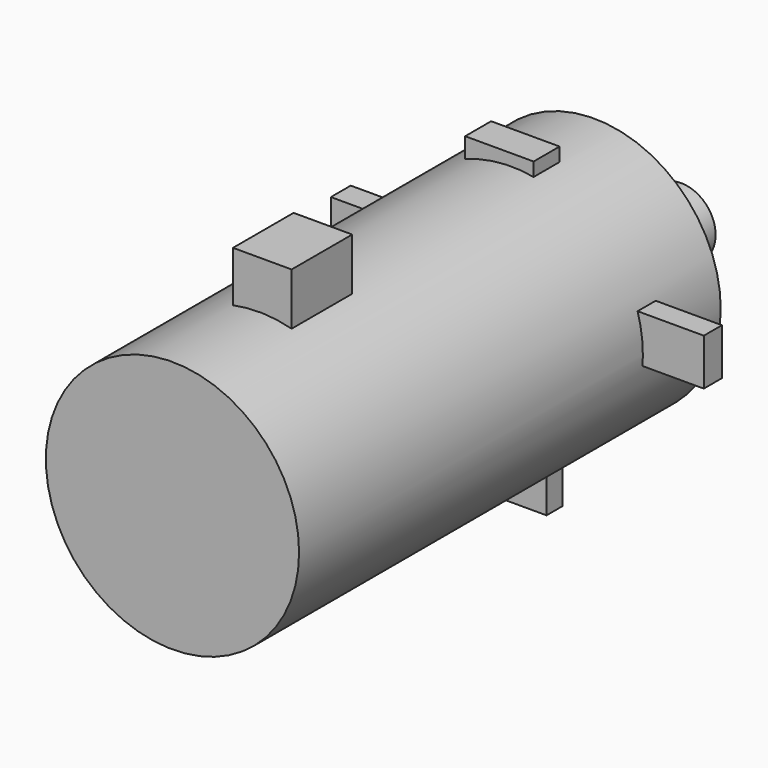
from build123d import *

# Parameters (mm, degrees)
F0_W      = 56.0778109357
F0_H      = 53.2455928624
F1_DEPTH  = 44.704
F2_DEPTH  = 156.464
F3_W      = 24.2135291919
F3_H      = 31.2681160867
F4_DEPTH  = 49.276
F5_R      = 52.2926795061
F6_DEPTH  = 167.386
F7_W      = 28.2771997154
F7_H      = 13.4079456329
F8_DEPTH  = 34.29
F9_W      = 9.346306324
F9_H      = 19.2590444349
F10_DEPTH = 50.292
F11_W     = 10.2544277906
F11_H     = 16.5816796944
F12_DEPTH = 50.546
F13_W     = 28.7344292738
F13_H     = 8.3368938427
F14_DEPTH = 40.132
F15_DEPTH = 50.292
F16_W     = 56.0778109357
F16_H     = 53.2455928624
F17_DEPTH = 15.24
F18_R     = 14.2521119729
F19_DEPTH = 40.64


with BuildPart() as f1:
    # F0 (on Front) → F1 (new body)
    with BuildSketch(Plane.XZ):
        with Locations((18.1261622347, -3.8234870881)):
            Rectangle(F0_W, F0_H)
    extrude(amount=F1_DEPTH)

    # F2 (add): a face of the model
    f2_faces = [f1.faces().sort_by_distance(p)[0] for p in [
        (18.1261622347, 0, -3.8234870881),
    ]]
    extrude(f2_faces, amount=F2_DEPTH)

    # F3 (on face) → F4 (join)
    with BuildSketch(Plane.XY.offset(22.7993093431)):
        with Locations((20.3220699914, 15.6340580434)):
            Rectangle(F3_W, F3_H)
    extrude(amount=F4_DEPTH)

    # F5 (on face) → F6 (join)
    with BuildSketch(Plane.XZ.offset(44.704)):
        with Locations((18.975822255, 0)):
            Circle(F5_R)
    extrude(amount=-F6_DEPTH)

    # F7 (on face) → F8 (join)
    with BuildSketch(Plane.XY.offset(22.7993093431)):
        with Locations((14.1385998577, 136.814981699)):
            Rectangle(F7_W, F7_H)
    extrude(amount=F8_DEPTH)

    # F9 (on face) → F10 (join)
    with BuildSketch(Plane.YZ.offset(46.1650677025)):
        with Locations((137.4184936285, 5.2395930979)):
            Rectangle(F9_W, F9_H)
    extrude(amount=F10_DEPTH)

    # F11 (on face) → F12 (join)
    with BuildSketch(Plane(origin=(-9.9127432331, 0, 0), x_dir=(0, -1, 0), z_dir=(-1, 0, 0))):
        with Locations((-141.4983049035, 4.4673527591)):
            Rectangle(F11_W, F11_H)
    extrude(amount=F12_DEPTH)

    # F13 (on face) → F14 (join)
    with BuildSketch(Plane(origin=(0, 0, -30.4462835193), x_dir=(1, 0, 0), z_dir=(0, 0, -1))):
        with Locations((18.3513916563, -135.4045530787)):
            Rectangle(F13_W, F13_H)
    extrude(amount=F14_DEPTH)

    # F15 (add): a face of the model
    f15_faces = [f1.faces().sort_by_distance(p)[0] for p in [
        (-31.8377969197, 122.682, 0),
    ]]
    extrude(f15_faces, amount=F15_DEPTH)

    # F16 (on face) → F17 (join)
    with BuildSketch(Plane(origin=(0, 156.464, 0), x_dir=(-1, 0, 0), z_dir=(0, 1, 0))):
        with Locations((-18.1261622347, -3.8234870881)):
            Rectangle(F16_W, F16_H)
    extrude(amount=F17_DEPTH)

    # F18 (on face) → F19 (join)
    with BuildSketch(Plane(origin=(0, 171.704, 0), x_dir=(-1, 0, 0), z_dir=(0, 1, 0))):
        with Locations((-23.4041027725, 0)):
            Circle(F18_R)
    extrude(amount=F19_DEPTH)


solid = f1.part
